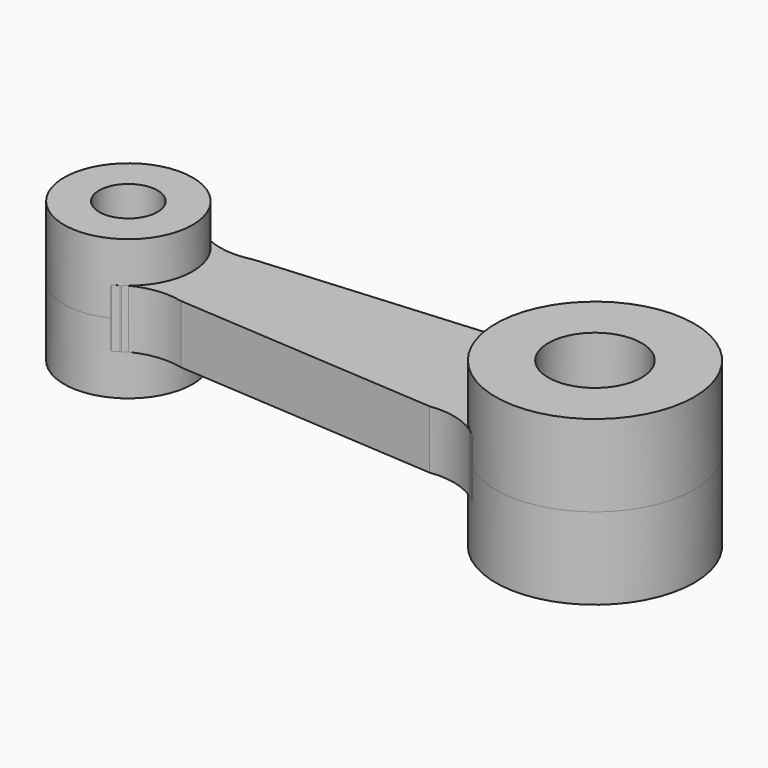
from build123d import *

# Parameters (mm, degrees)
F0_R      = 17
F0_R_2    = 8
F1_DEPTH  = 14
F2_R      = 17
F2_R_2    = 8
F3_DEPTH  = 14
F4_R      = 11
F4_R_2    = 5
F5_DEPTH  = 12
F6_R      = 11
F6_R_2    = 5
F7_DEPTH  = 12
F9_DEPTH  = 5
F10_DEPTH = 5


with BuildPart() as f1:
    # F0 (on Top) → F1 (new body)
    with BuildSketch(Plane.XY):
        Circle(F0_R)
        Circle(F0_R_2, mode=Mode.SUBTRACT)
    extrude(amount=-F1_DEPTH)

    # F2 (on face) → F3 (join)
    with BuildSketch(Plane.XY):
        Circle(F2_R)
        Circle(F2_R_2, mode=Mode.SUBTRACT)
    extrude(amount=F3_DEPTH)


with BuildPart() as f5:
    # F4 (on Top) → F5 (new body)
    with BuildSketch(Plane.XY):
        with Locations((-79.886973, 0)):
            Circle(F4_R)
        with Locations((-79.886973, 0)):
            Circle(F4_R_2, mode=Mode.SUBTRACT)
    extrude(amount=-F5_DEPTH)

    # F6 (on Top) → F7 (join)
    with BuildSketch(Plane.XY):
        with Locations((-79.886973, 0)):
            Circle(F6_R)
        with Locations((-79.886973, 0)):
            Circle(F6_R_2, mode=Mode.SUBTRACT)
    extrude(amount=F7_DEPTH)


with BuildPart() as f9:
    # F8 (on Top) → F9 (new body, symmetric)
    with BuildSketch(Plane.XY):
        with BuildLine():
            ThreePointArc((-9.983942, 13.759393), (-10.278623, 13.540676), (-10.568514, 13.315649))
            ThreePointArc((-10.568514, 13.315649), (-10.272835, 13.533051), (-9.983942, 13.759393))
        make_face()
        with BuildLine():
            ThreePointArc((-9.983942, -13.759393), (-10.602054, -13.228559), (-11.254762, -12.740892))
            ThreePointArc((-11.254762, -12.740892), (-10.631556, -13.265369), (-9.983942, -13.759393))
        make_face()
        with BuildLine():
            ThreePointArc((-75.025147, -9.867251), (-73.990363, -9.286011), (-73.024225, -8.596667))
            ThreePointArc((-73.024225, -8.596667), (-74.056134, -9.182435), (-75.025147, -9.867251))
        make_face()
        with BuildLine():
            ThreePointArc((-75.025147, 9.867251), (-74.089668, 9.214661), (-73.096455, 8.653835))
            ThreePointArc((-73.096455, 8.653835), (-74.029297, 9.310619), (-75.025147, 9.867251))
        make_face()
        with BuildLine():
            Line((-19.737622, 11.296302), (-64.735055, 7.743621))
            ThreePointArc((-64.735055, 7.743621), (-68.998113, 7.442176), (-73.096455, 8.653835))
            ThreePointArc((-73.096455, 8.653835), (-72.300451, 7.965217), (-71.573905, 7.203673))
            ThreePointArc((-71.573905, 7.203673), (-70.77157, 6.157063), (-70.10025, 5.021958))
            ThreePointArc((-70.10025, 5.021958), (-69.270229, 2.878323), (-68.903844, 0.608991))
            ThreePointArc((-68.903844, 0.608991), (-69.478071, -3.557354), (-71.573905, -7.203673))
            ThreePointArc((-71.573905, -7.203673), (-72.267166, -7.933382), (-73.024225, -8.596667))
            ThreePointArc((-73.024225, -8.596667), (-68.963156, -7.387645), (-64.735055, -7.665438))
            Line((-64.735055, -7.665438), (-19.737622, -10.703698))
            ThreePointArc((-19.737622, -10.703698), (-15.304505, -10.92411), (-11.254762, -12.740892))
            ThreePointArc((-11.254762, -12.740892), (-12.060072, -11.98143), (-12.814249, -11.171169))
            ThreePointArc((-12.814249, -11.171169), (-16.99284, 0.493353), (-12.144545, 11.895798))
            Line((-12.144545, 11.895798), (-13.495474, 11.789138))
            ThreePointArc((-13.495474, 11.789138), (-16.583836, 11.128403), (-19.737622, 11.296302))
        make_face()
        with BuildLine():
            ThreePointArc((-10.568514, 13.315649), (-11.979252, 12.451265), (-13.495474, 11.789138))
            Line((-13.495474, 11.789138), (-12.144545, 11.895798))
            ThreePointArc((-12.144545, 11.895798), (-11.378698, 12.63033), (-10.568514, 13.315649))
        make_face()
    extrude(amount=F9_DEPTH, both=True)


with BuildPart() as f10:
    # F8 (on Top) → F10 (new body, symmetric)
    with BuildSketch(Plane.XY):
        with BuildLine():
            ThreePointArc((-9.983942, 13.759393), (-10.278623, 13.540676), (-10.568514, 13.315649))
            ThreePointArc((-10.568514, 13.315649), (-10.272835, 13.533051), (-9.983942, 13.759393))
        make_face()
        with BuildLine():
            ThreePointArc((-9.983942, -13.759393), (-10.602054, -13.228559), (-11.254762, -12.740892))
            ThreePointArc((-11.254762, -12.740892), (-10.631556, -13.265369), (-9.983942, -13.759393))
        make_face()
        with BuildLine():
            ThreePointArc((-75.025147, -9.867251), (-73.990363, -9.286011), (-73.024225, -8.596667))
            ThreePointArc((-73.024225, -8.596667), (-74.056134, -9.182435), (-75.025147, -9.867251))
        make_face()
        with BuildLine():
            ThreePointArc((-75.025147, 9.867251), (-74.089668, 9.214661), (-73.096455, 8.653835))
            ThreePointArc((-73.096455, 8.653835), (-74.029297, 9.310619), (-75.025147, 9.867251))
        make_face()
        with BuildLine():
            Line((-19.737622, 11.296302), (-64.735055, 7.743621))
            ThreePointArc((-64.735055, 7.743621), (-68.998113, 7.442176), (-73.096455, 8.653835))
            ThreePointArc((-73.096455, 8.653835), (-72.300451, 7.965217), (-71.573905, 7.203673))
            ThreePointArc((-71.573905, 7.203673), (-70.77157, 6.157063), (-70.10025, 5.021958))
            ThreePointArc((-70.10025, 5.021958), (-69.270229, 2.878323), (-68.903844, 0.608991))
            ThreePointArc((-68.903844, 0.608991), (-69.478071, -3.557354), (-71.573905, -7.203673))
            ThreePointArc((-71.573905, -7.203673), (-72.267166, -7.933382), (-73.024225, -8.596667))
            ThreePointArc((-73.024225, -8.596667), (-68.963156, -7.387645), (-64.735055, -7.665438))
            Line((-64.735055, -7.665438), (-19.737622, -10.703698))
            ThreePointArc((-19.737622, -10.703698), (-15.304505, -10.92411), (-11.254762, -12.740892))
            ThreePointArc((-11.254762, -12.740892), (-12.060072, -11.98143), (-12.814249, -11.171169))
            ThreePointArc((-12.814249, -11.171169), (-16.99284, 0.493353), (-12.144545, 11.895798))
            Line((-12.144545, 11.895798), (-13.495474, 11.789138))
            ThreePointArc((-13.495474, 11.789138), (-16.583836, 11.128403), (-19.737622, 11.296302))
        make_face()
        with BuildLine():
            ThreePointArc((-10.568514, 13.315649), (-11.979252, 12.451265), (-13.495474, 11.789138))
            Line((-13.495474, 11.789138), (-12.144545, 11.895798))
            ThreePointArc((-12.144545, 11.895798), (-11.378698, 12.63033), (-10.568514, 13.315649))
        make_face()
    extrude(amount=F10_DEPTH, both=True)


solid = Compound([f1.part, f5.part, f9.part, f10.part])
